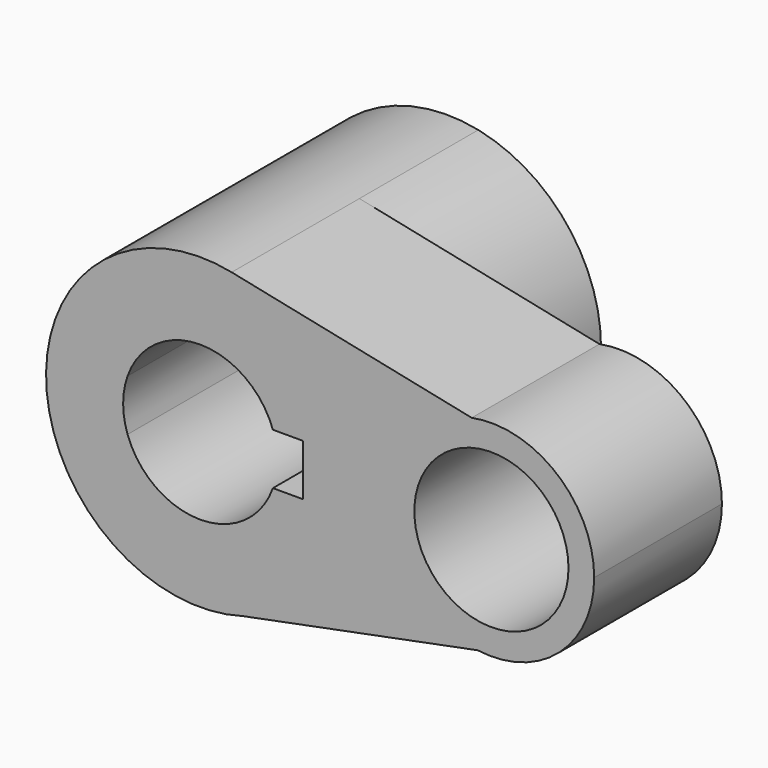
from build123d import *

# Parameters (mm, degrees)
F0_R     = 14.2875
F1_DEPTH = 29.59501
F2_DEPTH = 27.54543


with BuildPart() as f1:
    # F0 (on Front) → F1 (new body)
    with BuildSketch(Plane.XZ):
        with BuildLine():
            ThreePointArc((5.833385, 27.973242), (22.172275, 18.02556), (28.575, 0))
            ThreePointArc((28.575, 0), (22.836826, -17.175855), (7.926881, -27.45351))
            Line((7.926881, -27.45351), (51.427162, -18.878851))
            ThreePointArc((51.427162, -18.878851), (34.933258, -0.560862), (50.320414, 18.696163))
            Line((50.320414, 18.696163), (5.833385, 27.973242))
        make_face()
        with BuildLine():
            ThreePointArc((73.025, 0), (66.084555, 14.705821), (50.320414, 18.696163))
            ThreePointArc((50.320414, 18.696163), (34.933258, -0.560862), (51.427162, -18.878851))
            ThreePointArc((51.427162, -18.878851), (66.512268, -14.342922), (73.025, 0))
        make_face()
        with Locations((53.975, 0)):
            Circle(F0_R, mode=Mode.SUBTRACT)
        with BuildLine():
            ThreePointArc((7.926881, -27.45351), (22.836826, -17.175855), (28.575, 0))
            ThreePointArc((28.575, 0), (22.172275, 18.02556), (5.833385, 27.973242))
            ThreePointArc((5.833385, 27.973242), (-28.554639, -1.078523), (7.926881, -27.45351))
        make_face()
        with BuildLine():
            ThreePointArc((-13.470384, 4.7625), (0, 14.2875), (13.470384, 4.7625))
            Line((13.470384, 4.7625), (19.05, 4.7625))
            Line((19.05, 4.7625), (19.05, -4.7625))
            Line((19.05, -4.7625), (13.470384, -4.7625))
            ThreePointArc((13.470384, -4.7625), (0, -14.2875), (-13.470384, -4.7625))
            Line((-13.470384, -4.7625), (-19.05, -4.7625))
            Line((-19.05, -4.7625), (-19.05, 4.7625))
            Line((-19.05, 4.7625), (-13.470384, 4.7625))
        make_face(mode=Mode.SUBTRACT)
        with BuildLine():
            ThreePointArc((-13.470384, -4.7625), (-14.2875, 0), (-13.470384, 4.7625))
            Line((-13.470384, 4.7625), (-19.05, 4.7625))
            Line((-19.05, 4.7625), (-19.05, -4.7625))
            Line((-19.05, -4.7625), (-13.470384, -4.7625))
        make_face()
    extrude(amount=F1_DEPTH)

    # F0 (on Front) → F2 (join)
    with BuildSketch(Plane.XZ):
        with BuildLine():
            ThreePointArc((7.926881, -27.45351), (22.836826, -17.175855), (28.575, 0))
            ThreePointArc((28.575, 0), (22.172275, 18.02556), (5.833385, 27.973242))
            ThreePointArc((5.833385, 27.973242), (-28.554639, -1.078523), (7.926881, -27.45351))
        make_face()
        with BuildLine():
            ThreePointArc((-13.470384, 4.7625), (0, 14.2875), (13.470384, 4.7625))
            Line((13.470384, 4.7625), (19.05, 4.7625))
            Line((19.05, 4.7625), (19.05, -4.7625))
            Line((19.05, -4.7625), (13.470384, -4.7625))
            ThreePointArc((13.470384, -4.7625), (0, -14.2875), (-13.470384, -4.7625))
            Line((-13.470384, -4.7625), (-19.05, -4.7625))
            Line((-19.05, -4.7625), (-19.05, 4.7625))
            Line((-19.05, 4.7625), (-13.470384, 4.7625))
        make_face(mode=Mode.SUBTRACT)
        with BuildLine():
            ThreePointArc((-13.470384, -4.7625), (-14.2875, 0), (-13.470384, 4.7625))
            Line((-13.470384, 4.7625), (-19.05, 4.7625))
            Line((-19.05, 4.7625), (-19.05, -4.7625))
            Line((-19.05, -4.7625), (-13.470384, -4.7625))
        make_face()
    extrude(amount=-F2_DEPTH)


solid = f1.part
